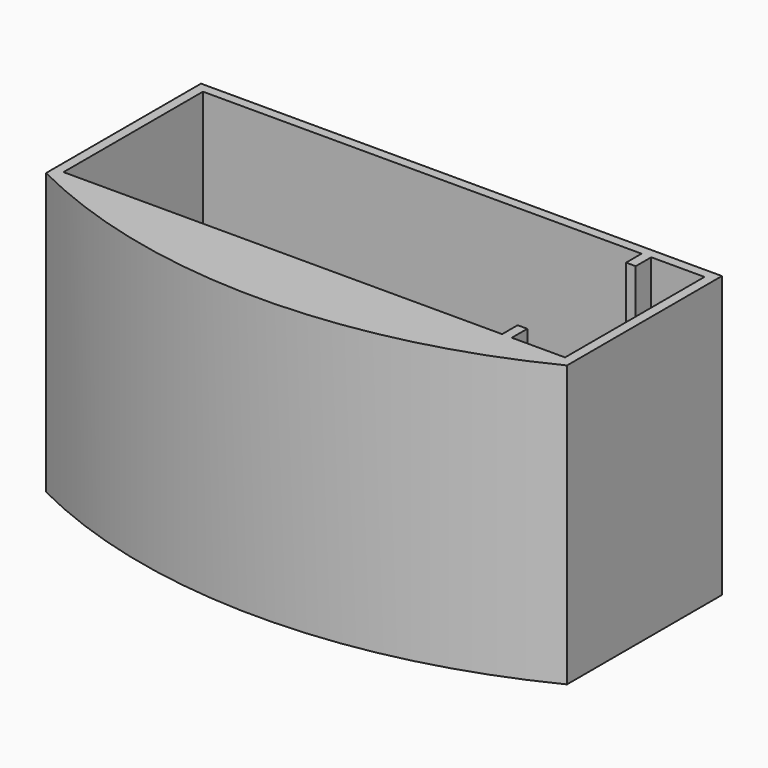
from build123d import *

# Parameters (mm, degrees)
F1_DEPTH = 29
F2_DEPTH = 1


with BuildPart() as f1:
    # F0 (on Top) → F1 (new body)
    with BuildSketch(Plane.XY):
        with BuildLine():
            Line((-26.9, -33.631987), (-26.9, -53.631987))
            ThreePointArc((-26.9, -53.631987), (0, -60), (26.9, -53.631987))
            Line((26.9, -53.631987), (26.9, -33.631987))
            Line((26.9, -33.631987), (-26.9, -33.631987))
        make_face()
        Polygon((-25.9, -43.631987), (-25.9, -34.631987), (19.4, -34.631987), (19.4, -36.631987), (20.4, -36.631987), (20.4, -34.631987), (25.9, -34.631987), (25.9, -43.631987), (25.9, -52.631987), (20.4, -52.631987), (20.4, -50.631987), (19.4, -50.631987), (19.4, -52.631987), (-25.9, -52.631987), align=None, mode=Mode.SUBTRACT)
    extrude(amount=F1_DEPTH)

    # F0 (on Top) → F2 (join)
    with BuildSketch(Plane.XY):
        Polygon((19.4, -34.631987), (-25.9, -34.631987), (-25.9, -43.631987), (-25.9, -52.631987), (19.4, -52.631987), (19.4, -50.631987), (20.4, -50.631987), (20.4, -52.631987), (25.9, -52.631987), (25.9, -43.631987), (25.9, -34.631987), (20.4, -34.631987), (20.4, -36.631987), (19.4, -36.631987), align=None)
    extrude(amount=F2_DEPTH)


solid = f1.part
